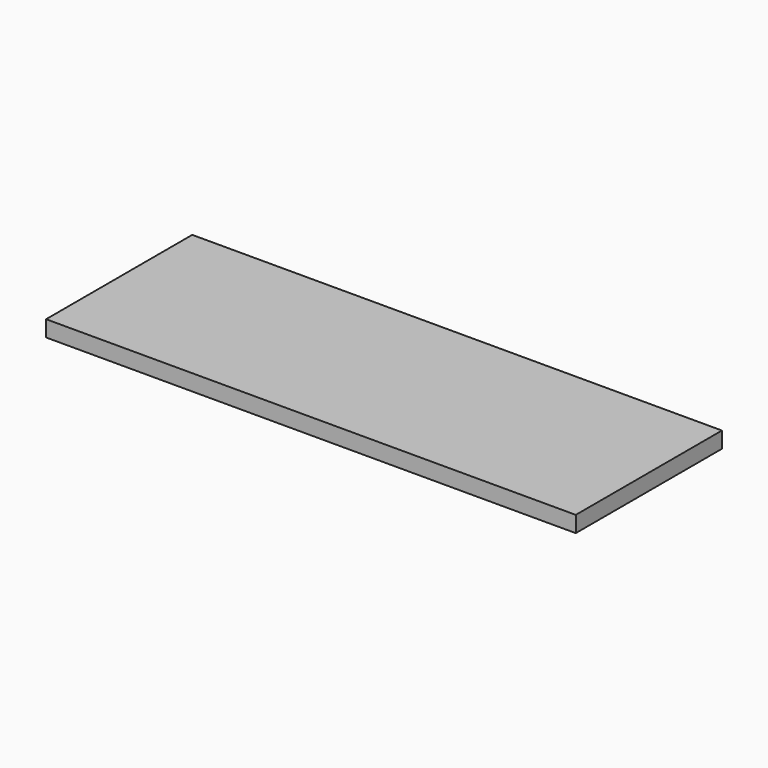
from build123d import *

# Parameters (mm, degrees)
F0_W     = 75.1259028912
F0_H     = 75.5951628089
F1_DEPTH = 19
F2_DEPTH = 50
F3_DEPTH = 500
F4_DEPTH = 140


with BuildPart() as f1:
    # F0 (on Top) → F1 (new body)
    with BuildSketch(Plane.XY):
        with Locations((37.5629514456, -37.7975814044)):
            Rectangle(F0_W, F0_H)
    extrude(amount=F1_DEPTH)

    # F2 (add): a face of the model
    f2_faces = [f1.faces().sort_by_distance(p)[0] for p in [
        (75.1259028912, -37.7975814044, 9.5),
    ]]
    extrude(f2_faces, amount=F2_DEPTH)

    # F3 (add): a face of the model
    f3_faces = [f1.faces().sort_by_distance(p)[0] for p in [
        (125.1259028912, -37.7975814044, 9.5),
    ]]
    extrude(f3_faces, amount=F3_DEPTH)

    # F4 (add): a face of the model
    f4_faces = [f1.faces().sort_by_distance(p)[0] for p in [
        (312.5629514456, -75.5951628089, 9.5),
    ]]
    extrude(f4_faces, amount=F4_DEPTH)


solid = f1.part
